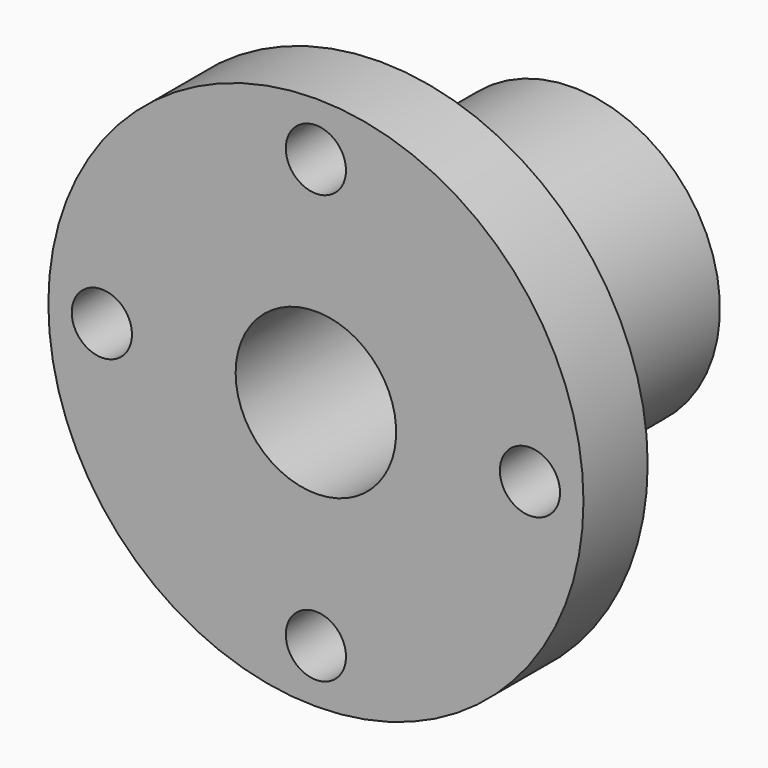
from build123d import *

# Parameters (mm, degrees)
F0_R     = 20
F0_R_2   = 11
F0_R_3   = 6
F1_DEPTH = 24
F2_R     = 6
F3_DEPTH = 24.001
F4_R     = 20
F4_R_2   = 11
F5_DEPTH = 18
F6_R     = 2.25
F7_DEPTH = 6.001


with BuildPart() as f1:
    # F0 (on Front) → F1 (new body)
    with BuildSketch(Plane.XZ):
        Circle(F0_R)
        Circle(F0_R_2, mode=Mode.SUBTRACT)
        Circle(F0_R_2)
        Circle(F0_R_3, mode=Mode.SUBTRACT)
        Circle(F0_R_3)
    extrude(amount=F1_DEPTH)

    # F2 (on face) → F3 (cut, through all)
    with BuildSketch(Plane(origin=(0, 0, 0), x_dir=(-1, 0, 0), z_dir=(0, 1, 0))):
        Circle(F2_R)
    extrude(amount=-F3_DEPTH, mode=Mode.SUBTRACT)

    # F4 (on face) → F5 (cut)
    with BuildSketch(Plane(origin=(0, 0, 0), x_dir=(-1, 0, 0), z_dir=(0, 1, 0))):
        Circle(F4_R)
        Circle(F4_R_2, mode=Mode.SUBTRACT)
    extrude(amount=-F5_DEPTH, mode=Mode.SUBTRACT)

    # F6 (on face) → F7 (cut, through all)
    with BuildSketch(Plane(origin=(0, -18, 0), x_dir=(-1, 0, 0), z_dir=(0, 1, 0))):
        with Locations((-16, 0)):
            Circle(F6_R)
        with Locations((0, -16)):
            Circle(F6_R)
        with Locations((16, 0)):
            Circle(F6_R)
        with Locations((0, 16)):
            Circle(F6_R)
    extrude(amount=-F7_DEPTH, mode=Mode.SUBTRACT)


solid = f1.part
